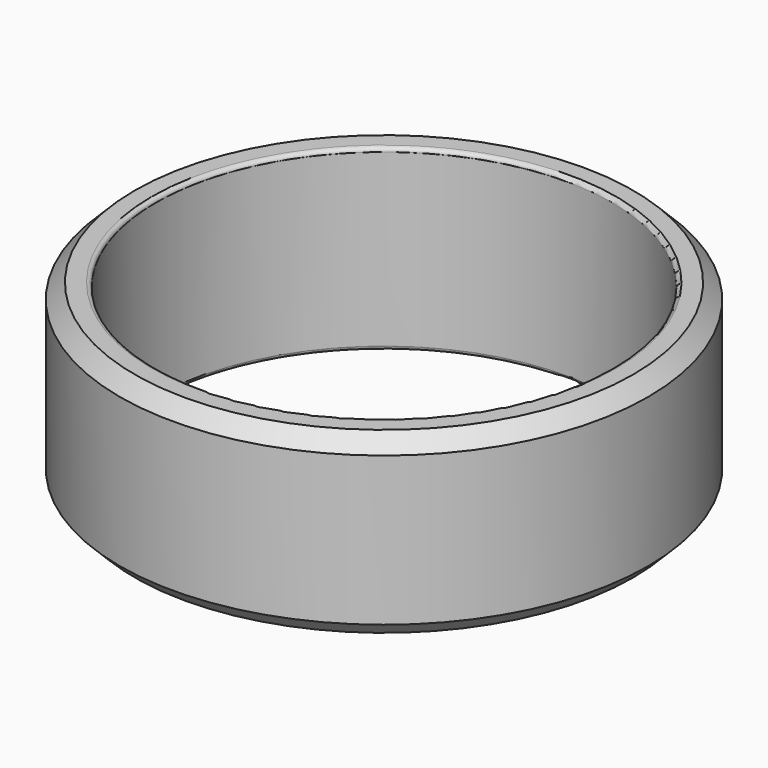
from build123d import *

# Parameters (mm, degrees)
F0_R     = 13.3
F0_R_2   = 11.5
F1_DEPTH = 9
F2_SIZE  = 0.75
F3_R     = 0.2
F4_R     = 0.2


with BuildPart() as f1:
    # F0 (on Top) → F1 (new body)
    with BuildSketch(Plane.XY):
        Circle(F0_R)
        Circle(F0_R_2, mode=Mode.SUBTRACT)
    extrude(amount=F1_DEPTH)

    # F2
    f2_edges = [f1.edges().sort_by_distance(p)[0] for p in [
        (-13.3, 0, 9),
        (-13.3, 0, 0),
    ]]
    chamfer(f2_edges, length=F2_SIZE)

    # F3
    f3_edges = [f1.edges().sort_by_distance(p)[0] for p in [
        (-11.5, 0, 9),
    ]]
    fillet(f3_edges, radius=F3_R)

    # F4
    f4_edges = [f1.edges().sort_by_distance(p)[0] for p in [
        (11.5, 0, 4.4),
        (-11.5, 0, 8.8),
        (-11.5, 0, 0),
    ]]
    fillet(f4_edges, radius=F4_R)


solid = f1.part
